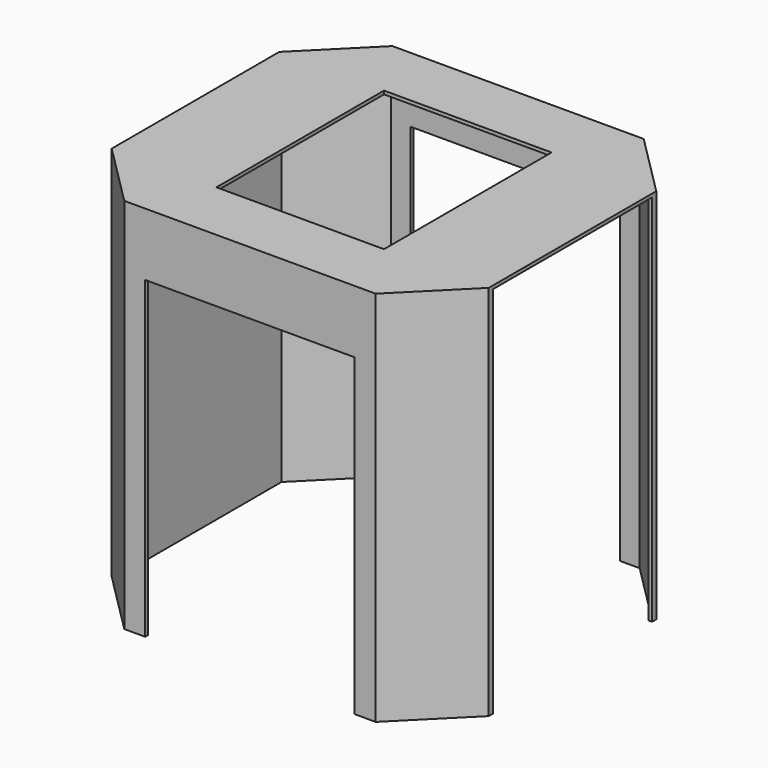
from build123d import *

# Parameters (mm, degrees)
F1_DEPTH = 80
F2_SIZE  = 30
F3_T     = -1.6
F4_W     = 95
F4_H     = 118.4
F4_H_2   = 60
F5_DEPTH = 25
F6_W     = 80
F6_H     = 100
F7_DEPTH = 25


with BuildPart() as f1:
    # F0 (on Front) → F1 (new body, symmetric)
    with BuildSketch(Plane.XZ):
        Polygon((50, -90), (90, -90), (90, 90), (-90, 90), (-90, -90), (-50, -90), (-50, 60), (0, 60), (50, 60), align=None)
    extrude(amount=F1_DEPTH, both=True)

    # F2
    f2_edges = [f1.edges().sort_by_distance(p)[0] for p in [
        (-90, -80, 0),
        (90, -80, 0),
        (90, 80, 0),
        (-90, 80, 0),
    ]]
    chamfer(f2_edges, length=F2_SIZE)

    # F3
    f3_openings = [f1.faces().sort_by_distance(p)[0] for p in [
        (68.363636, 0, -90),
        (-68.363636, 0, -90),
        (0, 0, 60),
        (50, 0, -15),
        (-50, 0, -15),
    ]]
    offset(amount=F3_T, openings=f3_openings)

    # F4 (on face) → F5 (cut)
    with BuildSketch(Plane.YZ.offset(90)):
        with Locations((0, -30.8)):
            Rectangle(F4_W, F4_H)
        with Locations((0, 58.4)):
            Rectangle(F4_W, F4_H_2)
    extrude(amount=-F5_DEPTH, mode=Mode.SUBTRACT)

    # F6 (on face) → F7 (cut)
    with BuildSketch(Plane.XY.offset(90)):
        Rectangle(F6_W, F6_H)
    extrude(amount=-F7_DEPTH, mode=Mode.SUBTRACT)


solid = f1.part
